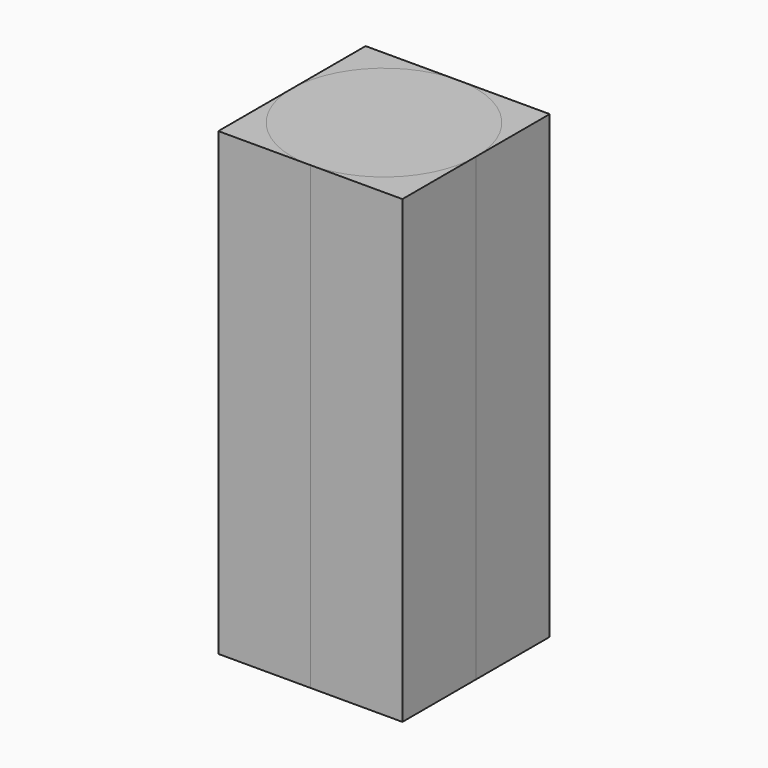
from build123d import *

# Parameters (mm, degrees)
F1_DEPTH = 25
F0_W     = 120
F0_H     = 7.5
F2_DEPTH = 25


with BuildPart() as f1:
    # F0 (on Top) → F1 (new body)
    with BuildSketch(Plane.XY):
        with BuildLine():
            Line((-55.5115031336, -1.2673012726), (-60.5115031336, -1.2673012726))
            Line((-60.5115031336, -1.2673012726), (-60.5115031336, -6.2673012726))
            ThreePointArc((-60.5115031336, -6.2673012726), (-59.0470370395, -2.7317673667), (-55.5115031336, -1.2673012726))
        make_face()
    extrude(amount=F1_DEPTH)


with BuildPart() as f1b:
    # F0 (on Top) → F1, piece 2 (new body)
    with BuildSketch(Plane.XY):
        with BuildLine():
            Line((-50.5115031336, -1.2673012726), (-55.5115031336, -1.2673012726))
            ThreePointArc((-55.5115031336, -1.2673012726), (-51.9759692277, -2.7317673667), (-50.5115031336, -6.2673012726))
            Line((-50.5115031336, -6.2673012726), (-50.5115031336, -1.2673012726))
        make_face()
    extrude(amount=F1_DEPTH)


with BuildPart() as f1c:
    # F0 (on Top) → F1, piece 3 (new body)
    with BuildSketch(Plane.XY):
        with BuildLine():
            ThreePointArc((-55.5115031336, -11.2673012726), (-59.0470370395, -9.8028351785), (-60.5115031336, -6.2673012726))
            Line((-60.5115031336, -6.2673012726), (-60.5115031336, -11.2673012726))
            Line((-60.5115031336, -11.2673012726), (-55.5115031336, -11.2673012726))
        make_face()
    extrude(amount=F1_DEPTH)


with BuildPart() as f1d:
    # F0 (on Top) → F1, piece 4 (new body)
    with BuildSketch(Plane.XY):
        with BuildLine():
            Line((-50.5115031336, -11.2673012726), (-50.5115031336, -6.2673012726))
            ThreePointArc((-50.5115031336, -6.2673012726), (-51.9759692277, -9.8028351785), (-55.5115031336, -11.2673012726))
            Line((-55.5115031336, -11.2673012726), (-50.5115031336, -11.2673012726))
        make_face()
    extrude(amount=F1_DEPTH)


with BuildPart() as f1e:
    # F0 (on Top) → F1, piece 5 (new body)
    with BuildSketch(Plane.XY):
        with Locations((19.0931870043, -10.3215911984)):
            Rectangle(F0_W, F0_H)
    extrude(amount=F1_DEPTH)


with BuildPart() as f2:
    # F0 (on Top) → F2 (new body)
    with BuildSketch(Plane.XY):
        with BuildLine():
            ThreePointArc((-50.5115031336, -6.2673012726), (-51.9759692277, -2.7317673667), (-55.5115031336, -1.2673012726))
            ThreePointArc((-55.5115031336, -1.2673012726), (-59.0470370395, -2.7317673667), (-60.5115031336, -6.2673012726))
            ThreePointArc((-60.5115031336, -6.2673012726), (-59.0470370395, -9.8028351785), (-55.5115031336, -11.2673012726))
            ThreePointArc((-55.5115031336, -11.2673012726), (-51.9759692277, -9.8028351785), (-50.5115031336, -6.2673012726))
        make_face()
    extrude(amount=F2_DEPTH)


with BuildPart() as f2b:
    # F0 (on Top) → F2, piece 2 (new body)
    with BuildSketch(Plane.XY):
        with Locations((19.0931870043, -2.8215911984)):
            Rectangle(F0_W, F0_H)
    extrude(amount=F2_DEPTH)


solid = Compound([f1.part, f1b.part, f1c.part, f1d.part, f2.part])
